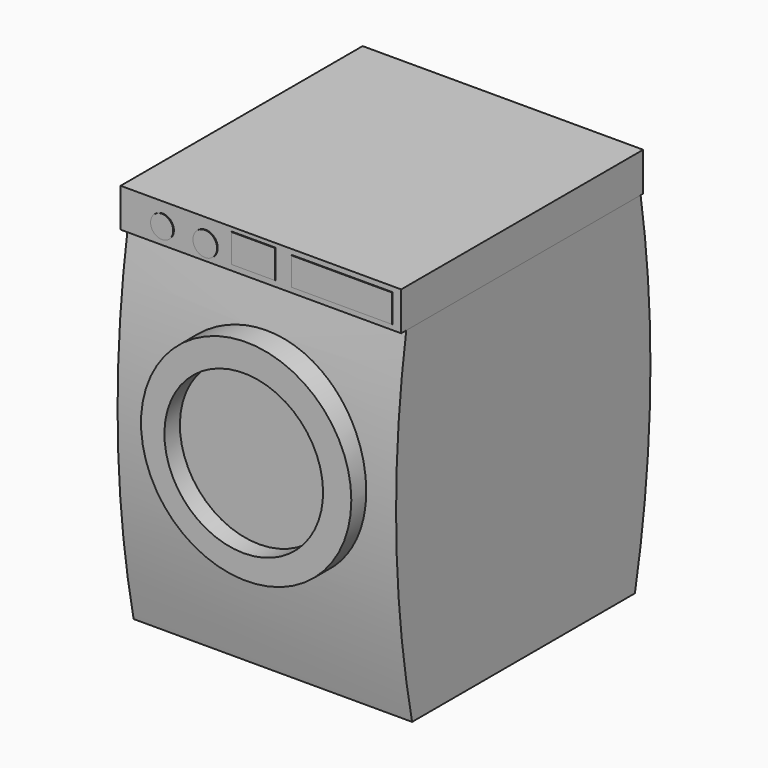
from build123d import *

# Parameters (mm, degrees)
PAD_DEPTH      = 360
PAD_DEPTH_BACK = 360
SKETCH001_R    = 271.855749
PAD001_DEPTH   = 100
SKETCH002_R    = 205.042507
POCKET_DEPTH   = 50
SKETCH003_W    = 782.000423
SKETCH003_H    = 725.272034
PAD002_DEPTH   = 100
SKETCH004_R    = 29.312065
SKETCH004_R_2  = 31.24981
SKETCH004_W    = 72.380981
SKETCH004_H    = 260.571579
SKETCH004_W_2  = 73.828552
SKETCH004_H_2  = 112.914345
PAD003_DEPTH   = 2


with BuildPart() as part:
    # Sketch → Pad (new body, two sides)
    with BuildSketch(Plane.YZ) as pad_sk:
        with BuildLine():
            Line((0, 0), (720, 0))
            ThreePointArc((720, 0), (770.07692, 500), (720, 1000))
            Line((0, 1000), (720, 1000))
            ThreePointArc((0, 1000), (-51.829558, 500), (0, 0))
        make_face()
    extrude(amount=PAD_DEPTH)
    extrude(pad_sk.sketch, amount=-PAD_DEPTH_BACK)

    # Sketch001 → Pad001 (join)
    with BuildSketch(Plane.XZ):
        with Locations((10.953636, 519.742493)):
            Circle(SKETCH001_R)
    extrude(amount=PAD001_DEPTH)

    # Sketch002 (on Face8 of Pad001) → Pocket (cut)
    with BuildSketch(Plane(origin=(0, -100, 0), x_dir=(0, 0, -1), z_dir=(0, -1, 0))):
        with Locations((-514.021362, 4.681509)):
            Circle(SKETCH002_R)
    extrude(amount=-POCKET_DEPTH, mode=Mode.SUBTRACT)

    # Sketch003 (on Face2 of Pocket) → Pad002 (join)
    with BuildSketch(Plane(origin=(0, 0, 1000), x_dir=(0, -1, 0), z_dir=(0, 0, 1))):
        with Locations((-353.783052, -1.157959)):
            Rectangle(SKETCH003_W, SKETCH003_H)
    extrude(amount=-PAD002_DEPTH)

    # Sketch004 (on Face4 of Pad002) → Pad003 (join)
    with BuildSketch(Plane(origin=(0, -37.217159, 0), x_dir=(0, 0, -1), z_dir=(0, -1, 0))):
        with Locations((-942.983643, -255.463287)):
            Circle(SKETCH004_R)
        with Locations((-940.088379, -143.996552)):
            Circle(SKETCH004_R_2)
        with Locations((-950.22174, 209.222724)):
            Rectangle(SKETCH004_W, SKETCH004_H)
        with Locations((-952.393158, -19.501239)):
            Rectangle(SKETCH004_W_2, SKETCH004_H_2)
    extrude(amount=PAD003_DEPTH)


solid = part.part
